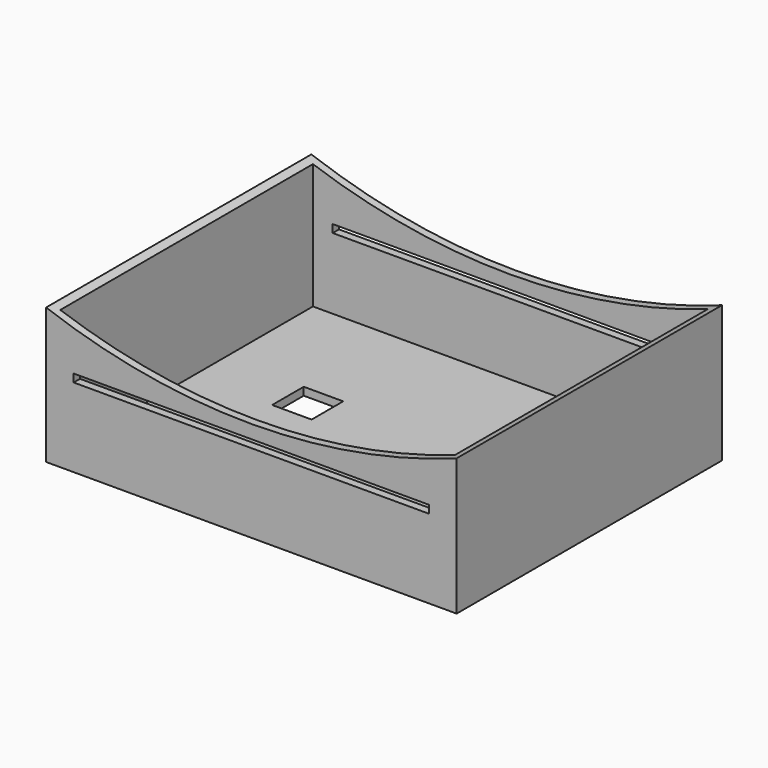
from build123d import *

# Parameters (mm, degrees)
SKETCH006_W     = 104
SKETCH006_H     = 84
SKETCH006_W_2   = 10
SKETCH006_H_2   = 10
PAD002_DEPTH    = 36
SKETCH007_W     = 100
SKETCH007_H     = 80
POCKET004_DEPTH = 34
POCKET005_DEPTH = 84.001
SKETCH009_W     = 90
SKETCH009_H     = 2
POCKET006_DEPTH = 84.001


with BuildPart() as part:
    # Sketch006 (on XY_Plane003 of Origin006) → Pad002 (new body)
    with BuildSketch(Plane.XY):
        with Locations((52, -42)):
            Rectangle(SKETCH006_W, SKETCH006_H)
        with Locations((27.064243, -35)):
            Rectangle(SKETCH006_W_2, SKETCH006_H_2, mode=Mode.SUBTRACT)
    extrude(amount=PAD002_DEPTH)

    # Sketch007 (on Face10 of Pad002) → Pocket004 (cut)
    with BuildSketch(Plane.XY.offset(36)):
        with Locations((52, -42)):
            Rectangle(SKETCH007_W, SKETCH007_H)
    extrude(amount=-POCKET004_DEPTH, mode=Mode.SUBTRACT)

    # Sketch008 (on Face3 of Pocket004) → Pocket005 (cut, through all)
    with BuildSketch(Plane.XZ.offset(84)):
        with BuildLine():
            ThreePointArc((-2.31593, 35.310703), (51.750534, 25.388306), (105.816997, 35.310703))
            Line((105.816997, 35.310703), (106.775558, 49.576915))
            Line((-2.31593, 49.576915), (106.775558, 49.576915))
            Line((-2.31593, 35.310703), (-2.31593, 49.576915))
        make_face()
    extrude(amount=-POCKET005_DEPTH, mode=Mode.SUBTRACT)

    # Sketch009 (on Face5 of Pocket005) → Pocket006 (cut, through all)
    with BuildSketch(Plane(origin=(0, 0, 0), x_dir=(-1, 0, 0), z_dir=(0, 1, 0))):
        with Locations((-52, 21)):
            Rectangle(SKETCH009_W, SKETCH009_H)
    extrude(amount=-POCKET006_DEPTH, mode=Mode.SUBTRACT)


solid = part.part
